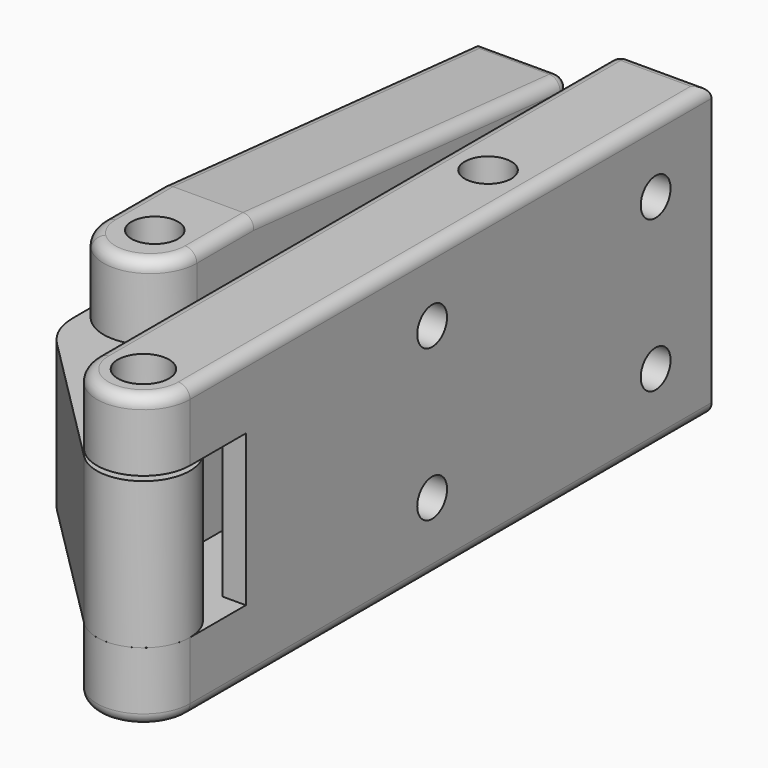
from build123d import *

# Parameters (mm, degrees)
F0_R           = 2.2
F0_W           = 8
F0_H           = 14
F1_DEPTH       = 25
F2_W           = 10
F2_H           = 13
F3_DEPTH       = 25
F5_DEPTH       = 13
F6_R           = 2.05
F6_W           = 8
F6_H           = 13.7279220614
F7_DEPTH       = 12.6
F8_R           = 2
F9_DEPTH       = 15
F11_DEPTH      = 6.4
F11_DEPTH_BACK = 18.6
F12_R          = 2
F13_DEPTH      = 15
F14_R          = 1.6
F15_DEPTH      = 8
F16_DEPTH      = 5
F17_R          = 1.6
F18_DEPTH      = 8
F19_DEPTH      = 3
F20_R          = 1
F20_2_R        = 1


with BuildPart() as f1:
    # F0 (on Top) → F1 (new body)
    with BuildSketch(Plane.XY):
        with BuildLine():
            Line((8, 0), (0, 0))
            Line((0, 0), (0, -42))
            ThreePointArc((0, -42), (4, -46), (8, -42))
            Line((8, -42), (8, 0))
        make_face()
        with Locations((4, -42)):
            Circle(F0_R, mode=Mode.SUBTRACT)
        with Locations((4, 7)):
            Rectangle(F0_W, F0_H)
    extrude(amount=F1_DEPTH)

    # F2 (on face) → F3 (cut)
    with BuildSketch(Plane.YZ.offset(8)):
        with Locations((-41, 12.5)):
            Rectangle(F2_W, F2_H)
    extrude(amount=-F3_DEPTH, mode=Mode.SUBTRACT)

    # F4 (on face) → F5 (cut, through all)
    with BuildSketch(Plane(origin=(0, 0, 19), x_dir=(1, 0, 0), z_dir=(0, 0, -1))):
        Polygon((6, 36), (0, 36), (0, 27), align=None)
    extrude(amount=F5_DEPTH, mode=Mode.SUBTRACT)

    # F8 (on face) → F9 (cut)
    with BuildSketch(Plane.XY.offset(25)):
        with Locations((4, -5)):
            Circle(F8_R)
    extrude(amount=-F9_DEPTH, mode=Mode.SUBTRACT)

    # F17 (on face) → F18 (cut, through all)
    with BuildSketch(Plane(origin=(0, 0, 0), x_dir=(0, -1, 0), z_dir=(-1, 0, 0))):
        with Locations((-8, 19)):
            Circle(F17_R)
        with Locations((16, 19)):
            Circle(F17_R)
        with Locations((16, 6)):
            Circle(F17_R)
        with Locations((-8, 6)):
            Circle(F17_R)
    extrude(amount=-F18_DEPTH, mode=Mode.SUBTRACT)

    # F17 (on face) → F19 (cut)
    with BuildSketch(Plane(origin=(0, 0, 0), x_dir=(0, -1, 0), z_dir=(-1, 0, 0))):
        Polygon((-9.5877132403, 16.25), (-6.4122867597, 16.25), (-4.8245735195, 19), (-6.4122867597, 21.75), (-9.5877132403, 21.75), (-11.1754264805, 19), align=None)
        with Locations((-8, 19)):
            Circle(F17_R, mode=Mode.SUBTRACT)
        Polygon((-9.5877132403, 3.25), (-6.4122867597, 3.25), (-4.8245735195, 6), (-6.4122867597, 8.75), (-9.5877132403, 8.75), (-11.1754264805, 6), align=None)
        with Locations((-8, 6)):
            Circle(F17_R, mode=Mode.SUBTRACT)
        Polygon((14.4122867597, 3.25), (17.5877132403, 3.25), (19.1754264805, 6), (17.5877132403, 8.75), (14.4122867597, 8.75), (12.8245735195, 6), align=None)
        with Locations((16, 6)):
            Circle(F17_R, mode=Mode.SUBTRACT)
        Polygon((14.4122867597, 16.25), (17.5877132403, 16.25), (19.1754264805, 19), (17.5877132403, 21.75), (14.4122867597, 21.75), (12.8245735195, 19), align=None)
        with Locations((16, 19)):
            Circle(F17_R, mode=Mode.SUBTRACT)
    extrude(amount=-F19_DEPTH, mode=Mode.SUBTRACT)

    # F20#2
    f20_2_edges = [f1.edges().sort_by_distance(p)[0] for p in [
        (0, 14, 12.5),
        (4, 14, 25),
        (0, -14, 25),
        (0, -14, 0),
    ]]
    fillet(f20_2_edges, radius=F20_2_R)


with BuildPart() as f7:
    # F6 (on face) → F7 (new body)
    with BuildSketch(Plane.XY.offset(6)):
        with BuildLine():
            Line((-10.5355339059, -33.1213203436), (1.1715728753, -44.8284271247))
            ThreePointArc((1.1715728753, -44.8284271247), (6.8284271247, -44.8284271247), (6.8284271247, -39.1715728753))
            Line((6.8284271247, -39.1715728753), (-2.5355339059, -29.8076118446))
            ThreePointArc((-2.5355339059, -29.8076118446), (-3.6193976626, -28.1854951005), (-4, -26.2720779386))
            Line((-4, -26.2720779386), (-4, 0))
            Line((-4, 0), (-12, 0))
            Line((-12, 0), (-12, -29.5857864376))
            ThreePointArc((-12, -29.5857864376), (-11.6193976626, -31.4992035995), (-10.5355339059, -33.1213203436))
        make_face()
        with Locations((4, -42)):
            Circle(F6_R, mode=Mode.SUBTRACT)
        with Locations((-8, 6.8639610307)):
            Rectangle(F6_W, F6_H)
    extrude(amount=F7_DEPTH)

    # F10 (on face) → F11 (join, two sides)
    with BuildSketch(Plane.XY.offset(18.6)) as f11_sk:
        with BuildLine():
            Line((-4, -26.2720779386), (-10.8284271247, -29.1005050634))
            ThreePointArc((-10.8284271247, -29.1005050634), (-6.4692662705, -29.9675960687), (-4, -26.2720779386))
        make_face()
        with BuildLine():
            ThreePointArc((-12, -26.2720779386), (-11.69551813, -27.8028116681), (-10.8284271247, -29.1005050634))
            Line((-10.8284271247, -29.1005050634), (-4, -26.2720779386))
            Line((-4, -26.2720779386), (-4, 13.7279220614))
            Line((-4, 13.7279220614), (-12, 13.7279220614))
            Line((-12, 13.7279220614), (-12, -26.2720779386))
        make_face()
    extrude(amount=F11_DEPTH)
    extrude(f11_sk.sketch, amount=-F11_DEPTH_BACK)

    # F12 (on face) → F13 (cut)
    with BuildSketch(Plane.XY.offset(25)):
        with Locations((-8, -25.7846096908)):
            Circle(F12_R)
    extrude(amount=-F13_DEPTH, mode=Mode.SUBTRACT)

    # F14 (on face) → F15 (cut, through all)
    with BuildSketch(Plane(origin=(-12, 0, 0), x_dir=(0, -1, 0), z_dir=(-1, 0, 0))):
        Polygon((-13.7279220614, 25), (-13.7279220614, 22), (20.0742036104, 25), align=None)
        Polygon((-9.3156353016, 1.75), (-6.1402088211, 1.75), (-4.5524955808, 4.5), (-6.1402088211, 7.25), (-9.3156353016, 7.25), (-10.9033485419, 4.5), align=None)
        with Locations((-7.7279220614, 4.5)):
            Circle(F14_R, mode=Mode.SUBTRACT)
        Polygon((18.6843646984, 1.75), (21.8597911789, 1.75), (23.4475044192, 4.5), (21.8597911789, 7.25), (18.6843646984, 7.25), (17.0966514581, 4.5), align=None)
        with Locations((20.2720779386, 4.5)):
            Circle(F14_R, mode=Mode.SUBTRACT)
        Polygon((18.6843646984, 13.25), (21.8597911789, 13.25), (23.4475044192, 16), (21.8597911789, 18.75), (18.6843646984, 18.75), (17.0966514581, 16), align=None)
        with Locations((20.2720779386, 16)):
            Circle(F14_R, mode=Mode.SUBTRACT)
        with Locations((-7.7279220614, 4.5)):
            Circle(F14_R)
        with Locations((20.2720779386, 4.5)):
            Circle(F14_R)
        with Locations((20.2720779386, 16)):
            Circle(F14_R)
    extrude(amount=-F15_DEPTH, mode=Mode.SUBTRACT)

    # F14 (on face) → F16 (join)
    with BuildSketch(Plane(origin=(-12, 0, 0), x_dir=(0, -1, 0), z_dir=(-1, 0, 0))):
        Polygon((18.6843646984, 13.25), (21.8597911789, 13.25), (23.4475044192, 16), (21.8597911789, 18.75), (18.6843646984, 18.75), (17.0966514581, 16), align=None)
        with Locations((20.2720779386, 16)):
            Circle(F14_R, mode=Mode.SUBTRACT)
        Polygon((18.6843646984, 1.75), (21.8597911789, 1.75), (23.4475044192, 4.5), (21.8597911789, 7.25), (18.6843646984, 7.25), (17.0966514581, 4.5), align=None)
        with Locations((20.2720779386, 4.5)):
            Circle(F14_R, mode=Mode.SUBTRACT)
        Polygon((-9.3156353016, 1.75), (-6.1402088211, 1.75), (-4.5524955808, 4.5), (-6.1402088211, 7.25), (-9.3156353016, 7.25), (-10.9033485419, 4.5), align=None)
        with Locations((-7.7279220614, 4.5)):
            Circle(F14_R, mode=Mode.SUBTRACT)
    extrude(amount=-F16_DEPTH)

    # F20
    f20_edges = [f7.edges().sort_by_distance(p)[0] for p in [
        (-8, 13.727922, 22),
        (-8, 13.727922, 0),
        (-4, 13.727922, 11),
        (-4, -6.272078, 0),
        (-4, -3.173141, 23.5),
        (-12, -3.173141, 23.5),
        (-8, -30.272078, 25),
    ]]
    fillet(f20_edges, radius=F20_R)


solid = Compound([f1.part, f7.part])
